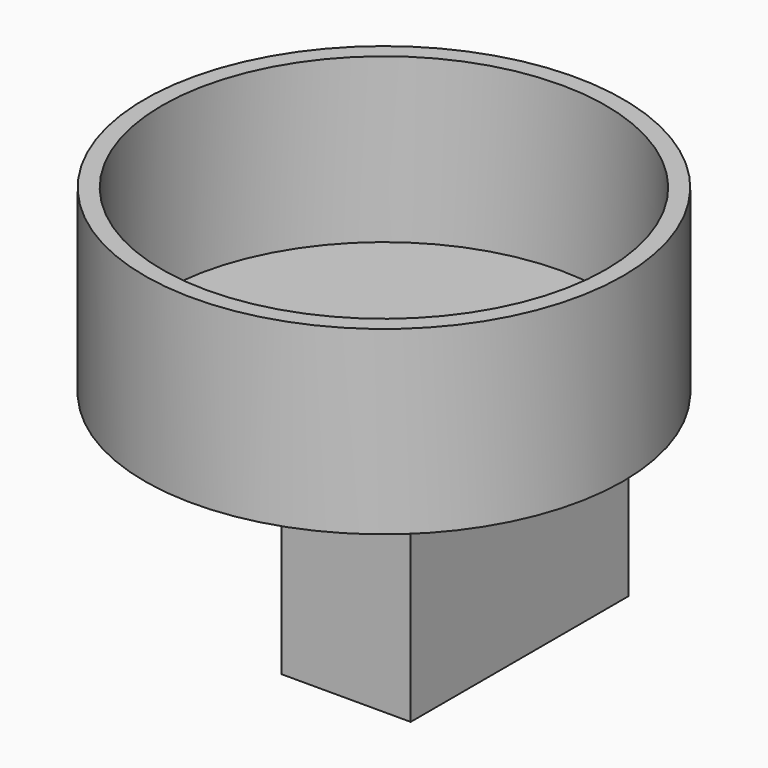
from build123d import *

# Parameters (mm, degrees)
F0_R     = 141.138793
F1_DEPTH = 106.68
F2_T     = -10.16
F3_W     = 160.795249
F3_H     = 98.622448
F4_DEPTH = 76.2
F5_T     = -7.62


with BuildPart() as f1:
    # F0 (on Top) → F1 (new body)
    with BuildSketch(Plane.XY):
        with Locations((-1.002694, 0.495775)):
            Circle(F0_R)
    extrude(amount=F1_DEPTH)

    # F2
    f2_openings = [f1.faces().sort_by_distance(p)[0] for p in [
        (-1.002694, 0.495775, 106.68),
    ]]
    offset(amount=F2_T, openings=f2_openings)


with BuildPart() as f4:
    # F3 (on Right) → F4 (new body)
    with BuildSketch(Plane.YZ):
        with Locations((4.09444, -65.253105)):
            Rectangle(F3_W, F3_H)
    extrude(amount=F4_DEPTH)

    # F5
    f5_openings = [f4.faces().sort_by_distance(p)[0] for p in [
        (38.1, 4.09444, -114.564329),
    ]]
    offset(amount=F5_T, openings=f5_openings)


solid = Compound([f1.part, f4.part])
